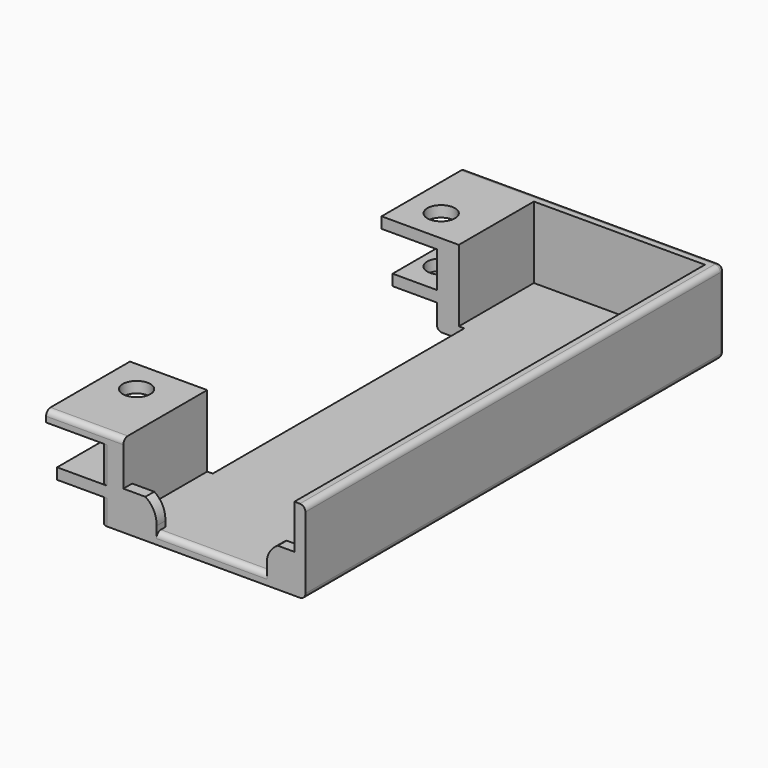
from build123d import *

# Parameters (mm, degrees)
PAD_DEPTH       = 95
SKETCH001_W     = 37
SKETCH001_H     = 15
PAD001_DEPTH    = 2
PAD002_DEPTH    = 2
PAD003_DEPTH    = 2
SKETCH004_W     = 15
SKETCH004_H     = 57
POCKET_DEPTH    = 15.001
SKETCH005_R     = 2.5
POCKET001_DEPTH = 15.001
FILLET_R        = 1
FILLET001_R     = 1
FILLET002_R     = 1
FILLET003_R     = 1
FILLET004_R     = 1
FILLET005_R     = 1
FILLET006_R     = 1
FILLET007_R     = 1
FILLET008_R     = 1
FILLET009_R     = 1


with BuildPart() as part:
    # Sketch → Pad (new body)
    with BuildSketch(Plane.XZ):
        Polygon((2, -3.25), (10, -3.25), (10, 3.25), (0, 3.25), (0, 5.25), (14, 5.25), (14, -7.75), (45, -7.75), (45, 5.25), (47, 5.25), (47, -9.75), (10, -9.75), (10, -5.25), (2, -5.25), align=None)
    extrude(amount=PAD_DEPTH)

    # Sketch001 (on Face15 of Pad) → Pad001 (join)
    with BuildSketch(Plane(origin=(0, 0, 0), x_dir=(1, 0, 0), z_dir=(0, 1, 0))):
        with Locations((28.5, 2.25)):
            Rectangle(SKETCH001_W, SKETCH001_H)
    extrude(amount=-PAD001_DEPTH)

    # Sketch002 (on Face6 of Pad001) → Pad002 (join)
    with BuildSketch(Plane.XZ.offset(95)):
        with BuildLine():
            Line((10, -9.75), (10, -2.75))
            Line((10, -2.75), (18, -2.75))
            ThreePointArc((20, -6.75), (19.553394, -4.473303), (18, -2.75))
            Line((20, -9.75), (20, -6.75))
            Line((10, -9.75), (20, -9.75))
        make_face()
    extrude(amount=-PAD002_DEPTH)

    # Sketch003 (on Face26 of Pad002) → Pad003 (join)
    with BuildSketch(Plane.XZ.offset(95)):
        with BuildLine():
            Line((47, -9.75), (40, -9.75))
            Line((40, -9.75), (40, -5.75))
            ThreePointArc((42, -2.75), (40.644801, -4.013201), (40, -5.75))
            Line((47, -2.75), (42, -2.75))
            Line((47, -9.75), (47, -2.75))
        make_face()
    extrude(amount=-PAD003_DEPTH)

    # Sketch004 (on Face24 of Pad003) → Pocket (cut, through all)
    with BuildSketch(Plane(origin=(0, 0, 5.25), x_dir=(-1, 0, 0), z_dir=(0, 0, 1))):
        with Locations((-7.5, 47.5)):
            Rectangle(SKETCH004_W, SKETCH004_H)
    extrude(amount=-POCKET_DEPTH, mode=Mode.SUBTRACT)

    # Sketch005 (on Face10 of Pocket) → Pocket001 (cut, through all)
    with BuildSketch(Plane(origin=(0, 0, 5.25), x_dir=(-1, 0, 0), z_dir=(0, 0, 1))):
        with Locations((-6, 82)):
            Circle(SKETCH005_R)
        with Locations((-6, 13)):
            Circle(SKETCH005_R)
    extrude(amount=-POCKET001_DEPTH, mode=Mode.SUBTRACT)

    # Fillet
    fillet_edges = [part.edges().sort_by_distance(p)[0] for p in [
        (47, -47.5, -9.75),
    ]]
    fillet(fillet_edges, radius=FILLET_R)

    # Fillet001
    fillet001_edges = [part.edges().sort_by_distance(p)[0] for p in [
        (47, -48.5, 5.25),
    ]]
    fillet(fillet001_edges, radius=FILLET001_R)

    # Fillet002
    fillet002_edges = [part.edges().sort_by_distance(p)[0] for p in [
        (29.5, 0, 5.25),
    ]]
    fillet(fillet002_edges, radius=FILLET002_R)

    # Fillet003
    fillet003_edges = [part.edges().sort_by_distance(p)[0] for p in [
        (10, 0, 0),
    ]]
    fillet(fillet003_edges, radius=FILLET003_R)

    # Fillet004
    fillet004_edges = [part.edges().sort_by_distance(p)[0] for p in [
        (10, 0, -7),
    ]]
    fillet(fillet004_edges, radius=FILLET004_R)

    # Fillet005
    fillet005_edges = [part.edges().sort_by_distance(p)[0] for p in [
        (10, -95, 0.25),
    ]]
    fillet(fillet005_edges, radius=FILLET005_R)

    # Fillet006
    fillet006_edges = [part.edges().sort_by_distance(p)[0] for p in [
        (10, -95, -7.5),
    ]]
    fillet(fillet006_edges, radius=FILLET006_R)

    # Fillet007
    fillet007_edges = [part.edges().sort_by_distance(p)[0] for p in [
        (7, -95, 5.25),
    ]]
    fillet(fillet007_edges, radius=FILLET007_R)

    # Fillet008
    fillet008_edges = [part.edges().sort_by_distance(p)[0] for p in [
        (15, -47.5, -9.75),
    ]]
    fillet(fillet008_edges, radius=FILLET008_R)

    # Fillet009
    fillet009_edges = [part.edges().sort_by_distance(p)[0] for p in [
        (30, -95, -7.75),
    ]]
    fillet(fillet009_edges, radius=FILLET009_R)


solid = part.part
